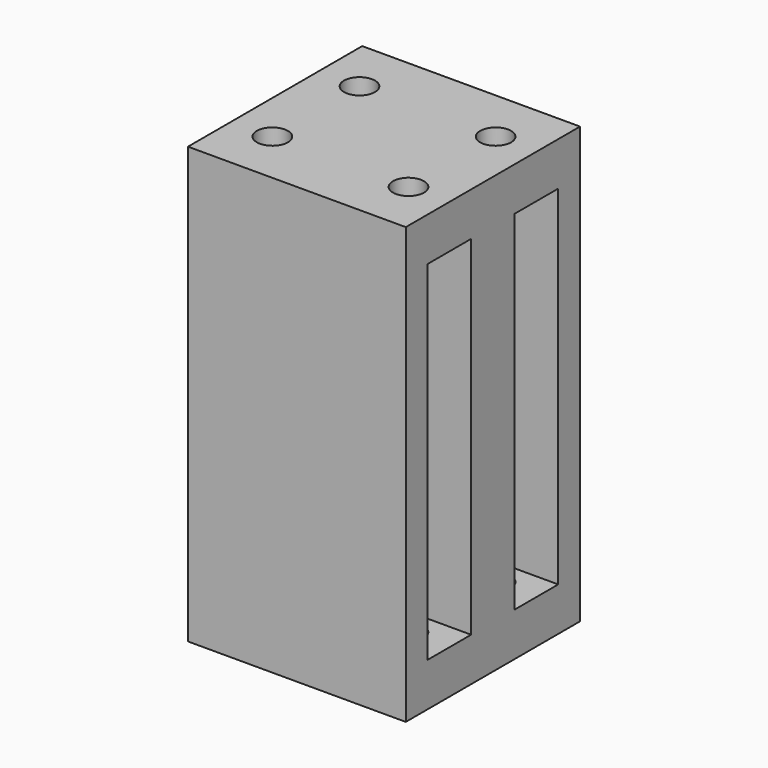
from build123d import *

# Parameters (mm, degrees)
F0_W     = 40
F0_H     = 40
F1_DEPTH = 80
F2_W     = 10
F2_H     = 64
F3_DEPTH = 15
F6_R     = 2.85
F7_DEPTH = 8


with BuildPart() as f1:
    # F0 (on Top) → F1 (new body)
    with BuildSketch(Plane.XY):
        Rectangle(F0_W, F0_H)
    extrude(amount=F1_DEPTH)


with BuildPart() as f3:
    # F2 (on face) → F3 (new body)
    with BuildSketch(Plane.YZ.offset(20)):
        with Locations((-10, 40)):
            Rectangle(F2_W, F2_H)
        with Locations((10, 40)):
            Rectangle(F2_W, F2_H)
    extrude(amount=-F3_DEPTH)


with BuildPart() as f4_1:
    # F4: instance of F3
    add(f3.part.mirror(Plane.YZ))


with BuildPart() as f1_1:
    add(f1.part)

    # F5: cut F3, F4_1
    add(f3.part, mode=Mode.SUBTRACT)
    add(f4_1.part, mode=Mode.SUBTRACT)


with BuildPart() as f7:
    # F6 (on face) → F7 (new body, through all)
    with BuildSketch(Plane.XY.offset(80)):
        with Locations((12.5, -10)):
            Circle(F6_R)
        with Locations((12.5, 10)):
            Circle(F6_R)
        with Locations((-12.5, 10)):
            Circle(F6_R)
        with Locations((-12.5, -10)):
            Circle(F6_R)
    extrude(amount=-F7_DEPTH)


with BuildPart() as f9_1:
    # F9: instance of F7
    add(f7.part.mirror(Plane(origin=(12.5, 10, 40), x_dir=(1, 0, 0), z_dir=(0, 0, 1))))


with BuildPart() as f1_2:
    add(f1_1.part)

    # F10: cut F7, F9_1
    add(f7.part, mode=Mode.SUBTRACT)
    add(f9_1.part, mode=Mode.SUBTRACT)


solid = f1_2.part
